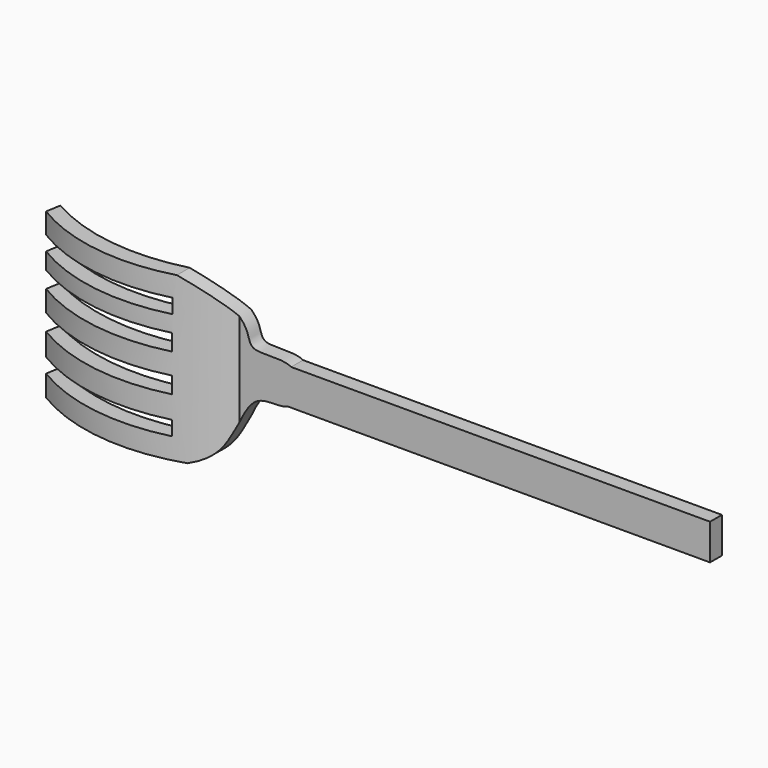
from build123d import *

# Parameters (mm, degrees)
F1_DEPTH = 25.4
F2_W     = 12.7390697598
F2_H     = 1.2400867417
F2_W_2   = 12.2317634523
F2_H_2   = 1.4091897756
F2_W_3   = 12.4008655548
F2_W_4   = 12.2881308198
F2_H_3   = 1.2400858104
F3_DEPTH = 63.5


with BuildPart() as f1:
    # F0 (on Top) → F1 (new body)
    with BuildSketch(Plane.XY):
        with BuildLine():
            Line((25.4060197622, -1.4102543581), (25.4060197622, -0.1402543581))
            Line((25.4060197622, -0.1402543581), (-14.7767802378, -0.1402543581))
            ThreePointArc((-14.7767802378, -0.1402543581), (-22.940352015, -2.3026814229), (-31.1039237922, -0.1402543581))
            Line((-31.1039237922, -0.1402543581), (-31.3214249909, -1.3914910378))
            ThreePointArc((-31.3214249909, -1.3914910378), (-23.0576327568, -3.7192286192), (-14.7885782644, -1.4102543581))
            Line((-14.7885782644, -1.4102543581), (25.4060197622, -1.4102543581))
        make_face()
    extrude(amount=F1_DEPTH)

    # F2 (on Front) → F3 (cut, symmetric)
    with BuildSketch(Plane.XZ):
        with BuildLine():
            Line((-10.3737713591, 13.5085717124), (26.4562286409, 13.5085717124))
            Line((26.4562286409, 13.5085717124), (26.7456762769, 26.4659006628))
            Line((26.7456762769, 26.4659006628), (-32.1357277047, 26.4659006628))
            Line((-32.1357277047, 26.4659006628), (-32.1357277047, 18.3892324567))
            Line((-32.1357277047, 18.3892324567), (-18.7555998564, 18.3892324567))
            add(Edge.make_bspline(
                [(-10.3737713591, 13.5085717124), (-11.2232817613, 13.9691896047), (-14.0927804087, 13.3147734099), (-13.8045436235, 15.6054494371), (-16.9112439708, 17.6451656296), (-18.7555998564, 18.3892324567)],
                knots=[0, 0, 0, 0, 0.3348868544, 0.5606693294, 1, 1, 1, 1], degree=3))
        make_face()
        with BuildLine():
            Line((26.1932773025, -2.3347232873), (26.1932773025, 10.4465098237))
            Line((26.1932773025, 10.4465098237), (-10.6367226975, 10.4465098237))
            add(Edge.make_bspline(
                [(-10.6367226975, 10.4465098237), (-11.3411252296, 10.1161423857), (-13.6269139207, 10.7775876683), (-15.2153835526, 6.7761421787), (-16.1896712658, 5.0349102786), (-18.0228203535, 4.3864340605)],
                knots=[0, 0, 0, 0, 0.2928827632, 0.6363136149, 1, 1, 1, 1], degree=3))
            Line((-18.0228203535, 4.3864340605), (-31.7411561322, 4.3864340605))
            Line((-31.7411561322, 4.3864340605), (-32.1357277047, -2.3347232873))
            Line((-32.1357277047, -2.3347232873), (26.1932773025, -2.3347232873))
        make_face()
        with Locations((-25.4207216203, 16.0031258129)):
            Rectangle(F2_W, F2_H)
        with Locations((-25.2234358341, 13.2692987099)):
            Rectangle(F2_W_2, F2_H_2)
        with Locations((-25.3079868853, 10.0563466549)):
            Rectangle(F2_W_3, F2_H_2)
        with Locations((-25.2516195178, 6.8152113818)):
            Rectangle(F2_W_4, F2_H_3)
    extrude(amount=F3_DEPTH, both=True, mode=Mode.SUBTRACT)


solid = f1.part
